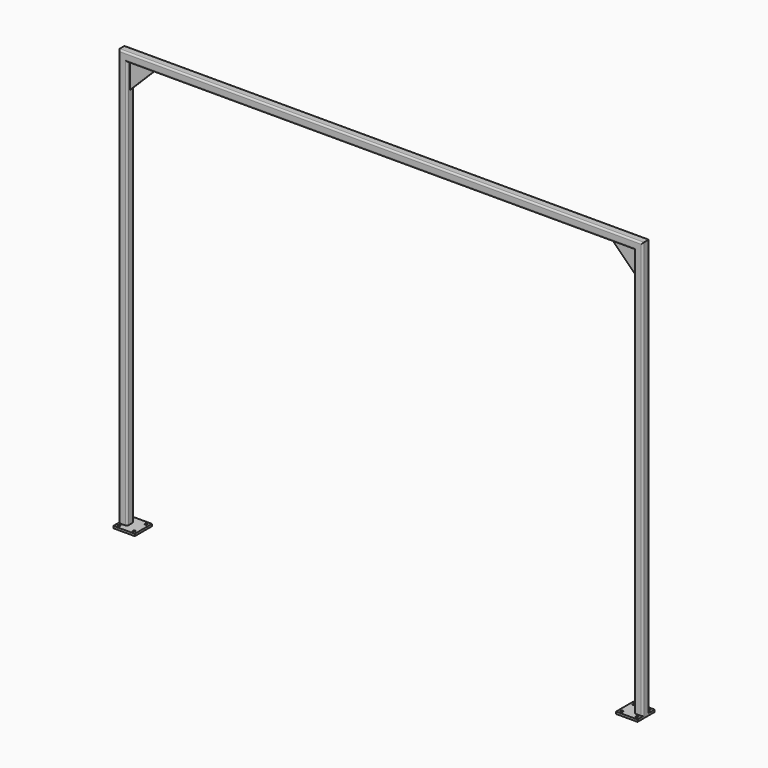
from build123d import *

# Parameters (mm, degrees)
F3_W     = 127
F3_H     = 127
F3_R     = 7.112
F4_DEPTH = 12.7
F6_DEPTH = 3.175


with BuildPart() as f2:
    # F2: sweep along a path in F0
    with BuildLine(Plane.XZ) as f2_path:
        Line((0, 0), (0, 2438.4))
        Line((0, 2438.4), (3048, 2438.4))
        Line((3048, 2438.4), (3048, 0))
    # F1 (on Top) → F2 (sweep)
    with BuildSketch(Plane.XY):
        with BuildLine():
            Line((15.875, 25.4), (-15.875, 25.4))
            ThreePointArc((-15.875, 25.4), (-22.6101920908, 22.6101920908), (-25.4, 15.875))
            Line((-25.4, 15.875), (-25.4, -15.875))
            ThreePointArc((-25.4, -15.875), (-22.6101920908, -22.6101920908), (-15.875, -25.4))
            Line((-15.875, -25.4), (15.875, -25.4))
            ThreePointArc((15.875, -25.4), (22.6101920908, -22.6101920908), (25.4, -15.875))
            Line((25.4, -15.875), (25.4, 15.875))
            ThreePointArc((25.4, 15.875), (22.6101920908, 22.6101920908), (15.875, 25.4))
        make_face()
    sweep(path=f2_path.line, transition=Transition.RIGHT)

    # F3 (on Top) → F4 (join)
    with BuildSketch(Plane.XY):
        with Locations((38.1, 0)):
            Rectangle(F3_W, F3_H)
        with Locations((-6.35, -44.45)):
            Circle(F3_R, mode=Mode.SUBTRACT)
        with Locations((82.55, -44.45)):
            Circle(F3_R, mode=Mode.SUBTRACT)
        with Locations((-6.35, 44.45)):
            Circle(F3_R, mode=Mode.SUBTRACT)
        with Locations((82.55, 44.45)):
            Circle(F3_R, mode=Mode.SUBTRACT)
        with Locations((3009.9, 0)):
            Rectangle(F3_W, F3_H)
        with Locations((2965.45, -44.45)):
            Circle(F3_R, mode=Mode.SUBTRACT)
        with Locations((3054.35, -44.45)):
            Circle(F3_R, mode=Mode.SUBTRACT)
        with Locations((2965.45, 44.45)):
            Circle(F3_R, mode=Mode.SUBTRACT)
        with Locations((3054.35, 44.45)):
            Circle(F3_R, mode=Mode.SUBTRACT)
    extrude(amount=-F4_DEPTH)

    # F5 (on Front) → F6 (join, symmetric)
    with BuildSketch(Plane.XZ):
        Polygon((177.8, 2413), (25.4, 2413), (25.4, 2260.6), align=None)
        Polygon((3022.6, 2260.6), (3022.6, 2413), (2870.2, 2413), align=None)
    extrude(amount=F6_DEPTH, both=True)


solid = f2.part
